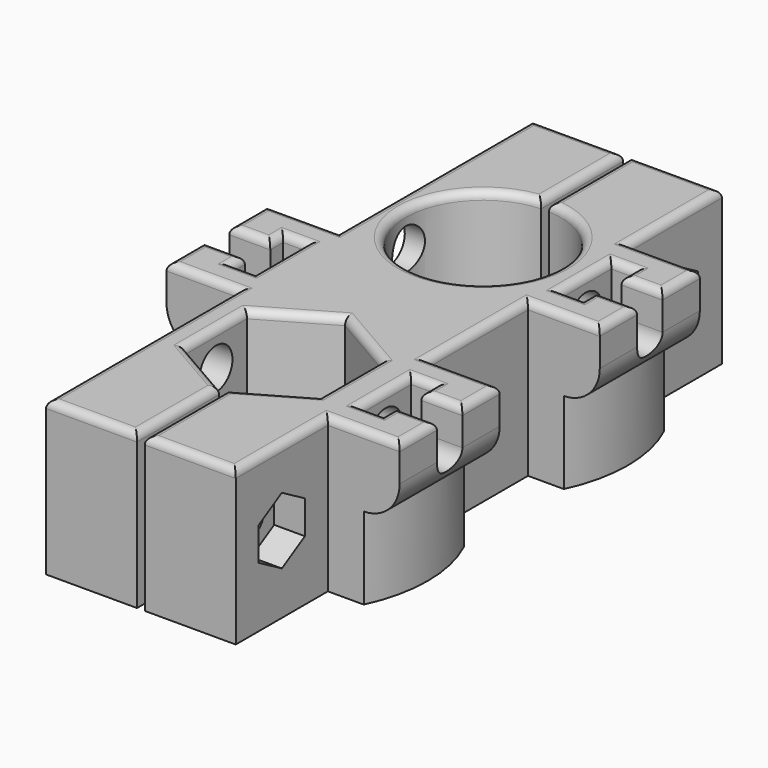
from build123d import *

# Parameters (mm, degrees)
EXTRUDE_DEPTH    = 15
POCKET_DEPTH     = 3.5
POCKET001_DEPTH  = 4
POCKET002_DEPTH  = 4
POCKET003_DEPTH  = 2.25
POCKET004_DEPTH  = 2.25
SKETCH006_R      = 2
POCKET005_DEPTH  = 26.251
POCKET006_DEPTH  = 48.041681
POCKET007_DEPTH  = 35.841681
EXTRUDE001_DEPTH = 8.5
SKETCH010_R      = 1.55
POCKET008_DEPTH  = 25.501
POCKET009_DEPTH  = 3
SKETCH012_R      = 3.2
POCKET010_DEPTH  = 3
FILLET_R         = 0.75


with BuildPart() as pocket007:
    # Sketch → Extrude (new body)
    with BuildSketch(Plane.XY):
        with BuildLine():
            Line((-6.538492, -28.175), (-6.538492, -20.625))
            Line((-6.538492, -20.625), (0, -16.85))
            Line((0, -16.85), (6.538492, -20.625))
            Line((6.538492, -20.625), (6.538492, -28.175))
            Line((6.538492, -28.175), (0.375, -31.733494))
            Line((0.375, -41.733494), (0.375, -31.733494))
            Line((9.25, -41.733494), (0.375, -41.733494))
            Line((9.25, -30.5), (9.25, -41.733494))
            Line((16.25, -30.5), (9.25, -30.5))
            Line((16.25, -18.3), (16.25, -30.5))
            Line((9.25, -18.3), (16.25, -18.3))
            Line((9.25, -6.1), (9.25, -18.3))
            Line((16.25, -6.1), (9.25, -6.1))
            Line((16.25, 6.1), (16.25, -6.1))
            Line((9.25, 6.1), (16.25, 6.1))
            Line((9.25, 17.540681), (9.25, 6.1))
            Line((0.375, 17.540681), (9.25, 17.540681))
            Line((0.375, 7.540681), (0.375, 17.540681))
            ThreePointArc((-0.375, 7.540681), (0, -7.55), (0.375, 7.540681))
            Line((-0.375, 7.540681), (-0.375, 17.540681))
            Line((-0.375, 17.540681), (-9.25, 17.540681))
            Line((-9.25, 17.540681), (-9.25, -6.1))
            Line((-9.25, -6.1), (-16.25, -6.1))
            Line((-16.25, -6.1), (-16.25, -18.3))
            Line((-16.25, -18.3), (-9.25, -18.3))
            Line((-9.25, -18.3), (-9.25, -41.733494))
            Line((-9.25, -41.733494), (-0.375, -41.733494))
            Line((-0.375, -41.733494), (-0.375, -31.733494))
            Line((-0.375, -31.733494), (-6.538492, -28.175))
        make_face()
    extrude(amount=EXTRUDE_DEPTH)

    # Sketch001 → Pocket (cut)
    with BuildSketch(Plane.XY.offset(15)):
        Polygon((16.25, 1.55), (12.25, 1.55), (12.25, 3.125), (10, 3.125), (10, -3.125), (12.25, -3.125), (12.25, -1.55), (16.25, -1.55), align=None)
        Polygon((16.25, -22.85), (12.25, -22.85), (12.25, -21.275), (10, -21.275), (10, -27.525), (12.25, -27.525), (12.25, -25.95), (16.25, -25.95), align=None)
        Polygon((-16.25, -10.65), (-12.25, -10.65), (-12.25, -9.075), (-10, -9.075), (-10, -15.325), (-12.25, -15.325), (-12.25, -13.75), (-16.25, -13.75), align=None)
    extrude(amount=-POCKET_DEPTH, mode=Mode.SUBTRACT)

    # Sketch002 → Pocket001 (cut)
    with BuildSketch(Plane.YZ.offset(16.25)):
        with BuildLine():
            Line((-25.95, 11.5), (-22.85, 11.5))
            ThreePointArc((-25.95, 11.5), (-24.4, 9.95), (-22.85, 11.5))
        make_face()
        with BuildLine():
            Line((-1.55, 11.5), (1.55, 11.5))
            ThreePointArc((-1.55, 11.5), (0, 9.95), (1.55, 11.5))
        make_face()
    extrude(amount=-POCKET001_DEPTH, mode=Mode.SUBTRACT)

    # Sketch003 → Pocket002 (cut)
    with BuildSketch(Plane(origin=(-16.25, 0, 0), x_dir=(0, -1, 0), z_dir=(-1, 0, 0))):
        with BuildLine():
            Line((10.65, 11.5), (13.75, 11.5))
            ThreePointArc((10.65, 11.5), (12.2, 9.95), (13.75, 11.5))
        make_face()
    extrude(amount=-POCKET002_DEPTH, mode=Mode.SUBTRACT)

    # Sketch004 → Pocket003 (cut)
    with BuildSketch(Plane(origin=(-10, 0, 0), x_dir=(0, -1, 0), z_dir=(-1, 0, 0))):
        with BuildLine():
            Line((9.075, 11.5), (15.325, 11.5))
            ThreePointArc((9.075, 11.5), (12.2, 8.375), (15.325, 11.5))
        make_face()
    extrude(amount=POCKET003_DEPTH, mode=Mode.SUBTRACT)

    # Sketch005 → Pocket004 (cut)
    with BuildSketch(Plane.YZ.offset(10)):
        with BuildLine():
            Line((-27.525, 11.5), (-21.275, 11.5))
            ThreePointArc((-27.525, 11.5), (-24.4, 8.375), (-21.275, 11.5))
        make_face()
        with BuildLine():
            Line((-3.125, 11.5), (3.125, 11.5))
            ThreePointArc((-3.125, 11.5), (0, 8.375), (3.125, 11.5))
        make_face()
    extrude(amount=POCKET004_DEPTH, mode=Mode.SUBTRACT)

    # Sketch006 → Pocket005 (cut, through all)
    with BuildSketch(Plane.YZ.offset(10)):
        with Locations((-24.4, 11.5)):
            Circle(SKETCH006_R)
        with Locations((0, 11.5)):
            Circle(SKETCH006_R)
    extrude(amount=-POCKET005_DEPTH, mode=Mode.SUBTRACT)

    # Sketch007 → Pocket006 (cut, through all)
    with BuildSketch(Plane.XZ.offset(30.5)):
        with BuildLine():
            Line((12.75, 8), (12.75, 0))
            Line((12.75, 0), (16.25, 0))
            Line((16.25, 0), (16.25, 11.5))
            ThreePointArc((12.75, 8), (15.224874, 9.025126), (16.25, 11.5))
        make_face()
    extrude(amount=-POCKET006_DEPTH, mode=Mode.SUBTRACT)

    # Sketch008 → Pocket007 (cut, through all)
    with BuildSketch(Plane.XZ.offset(18.3)):
        with BuildLine():
            Line((-12.75, 8), (-12.75, 0))
            Line((-12.75, 0), (-16.25, 0))
            Line((-16.25, 0), (-16.25, 11.5))
            ThreePointArc((-16.25, 11.5), (-15.224874, 9.025126), (-12.75, 8))
        make_face()
    extrude(amount=-POCKET007_DEPTH, mode=Mode.SUBTRACT)


with BuildPart() as fillet_body:
    # Sketch009 → Extrude001 (new body)
    with BuildSketch(Plane(origin=(0, 0, 0), x_dir=(1, 0, 0), z_dir=(0, 0, -1))):
        with BuildLine():
            Line((-12.75, 18.3), (-12.75, 6.1))
            ThreePointArc((-12.75, 18.3), (-14.116323, 12.2), (-12.75, 6.1))
        make_face()
        with BuildLine():
            Line((12.75, 18.3), (12.75, 30.5))
            ThreePointArc((12.75, 18.3), (14.116323, 24.4), (12.75, 30.5))
        make_face()
        with BuildLine():
            Line((12.75, 6.1), (12.75, -6.1))
            ThreePointArc((12.75, -6.1), (14.116323, 0), (12.75, 6.1))
        make_face()
    extrude(amount=-EXTRUDE001_DEPTH)

    # Fusion: union Pocket007
    add(pocket007.part)

    # Sketch010 → Pocket008 (cut, through all)
    with BuildSketch(Plane.YZ.offset(9.25)):
        with Locations((-36.116747, 7.5)):
            Circle(SKETCH010_R)
        with Locations((11.820341, 7.5)):
            Circle(SKETCH010_R)
    extrude(amount=-POCKET008_DEPTH, mode=Mode.SUBTRACT)

    # Sketch011 → Pocket009 (cut)
    with BuildSketch(Plane.YZ.offset(9.25)):
        Polygon((-36.116747, 10.75), (-38.931329, 9.125), (-38.931329, 5.875), (-36.116747, 4.25), (-33.302164, 5.875), (-33.302164, 9.125), align=None)
        Polygon((11.820341, 10.75), (9.005758, 9.125), (9.005758, 5.875), (11.820341, 4.25), (14.634923, 5.875), (14.634923, 9.125), align=None)
    extrude(amount=-POCKET009_DEPTH, mode=Mode.SUBTRACT)

    # Sketch012 → Pocket010 (cut)
    with BuildSketch(Plane(origin=(-9.25, 0, 0), x_dir=(0, -1, 0), z_dir=(-1, 0, 0))):
        with Locations((36.116747, 7.5)):
            Circle(SKETCH012_R)
        with Locations((-11.820341, 7.5)):
            Circle(SKETCH012_R)
    extrude(amount=-POCKET010_DEPTH, mode=Mode.SUBTRACT)

    # Fillet
    fillet_edges = [fillet_body.edges().sort_by_distance(p)[0] for p in [
        (-0.375, 12.540681, 15),
        (0, -7.55, 15),
        (0.375, 12.540681, 15),
        (4.8125, 17.540681, 15),
        (9.25, 11.820341, 15),
        (12.75, 6.1, 15),
        (16.25, 3.825, 15),
        (14.25, 1.55, 15),
        (12.25, 2.3375, 15),
        (11.125, 3.125, 15),
        (10, 0, 15),
        (11.125, -3.125, 15),
        (12.25, -2.3375, 15),
        (14.25, -1.55, 15),
        (16.25, -3.825, 15),
        (12.75, -6.1, 15),
        (9.25, -12.2, 15),
        (12.75, -18.3, 15),
        (16.25, -20.575, 15),
        (14.25, -22.85, 15),
        (12.25, -22.0625, 15),
        (11.125, -21.275, 15),
        (10, -24.4, 15),
        (11.125, -27.525, 15),
        (12.25, -26.7375, 15),
        (14.25, -25.95, 15),
        (16.25, -28.225, 15),
        (12.75, -30.5, 15),
        (9.25, -36.116747, 15),
        (4.8125, -41.733494, 15),
        (0.375, -36.733494, 15),
        (3.456746, -29.954247, 15),
        (6.538492, -24.4, 15),
        (3.269246, -18.7375, 15),
        (-3.269246, -18.7375, 15),
        (-6.538492, -24.4, 15),
        (-3.456746, -29.954247, 15),
        (-0.375, -36.733494, 15),
        (-4.8125, -41.733494, 15),
        (-9.25, -30.016747, 15),
        (-12.75, -18.3, 15),
        (-16.25, -16.025, 15),
        (-14.25, -13.75, 15),
        (-12.25, -14.5375, 15),
        (-11.125, -15.325, 15),
        (-10, -12.2, 15),
        (-11.125, -9.075, 15),
        (-12.25, -9.8625, 15),
        (-14.25, -10.65, 15),
        (-16.25, -8.375, 15),
        (-12.75, -6.1, 15),
        (-9.25, 5.720341, 15),
        (-4.8125, 17.540681, 15),
    ]]
    fillet(fillet_edges, radius=FILLET_R)


solid = fillet_body.part
